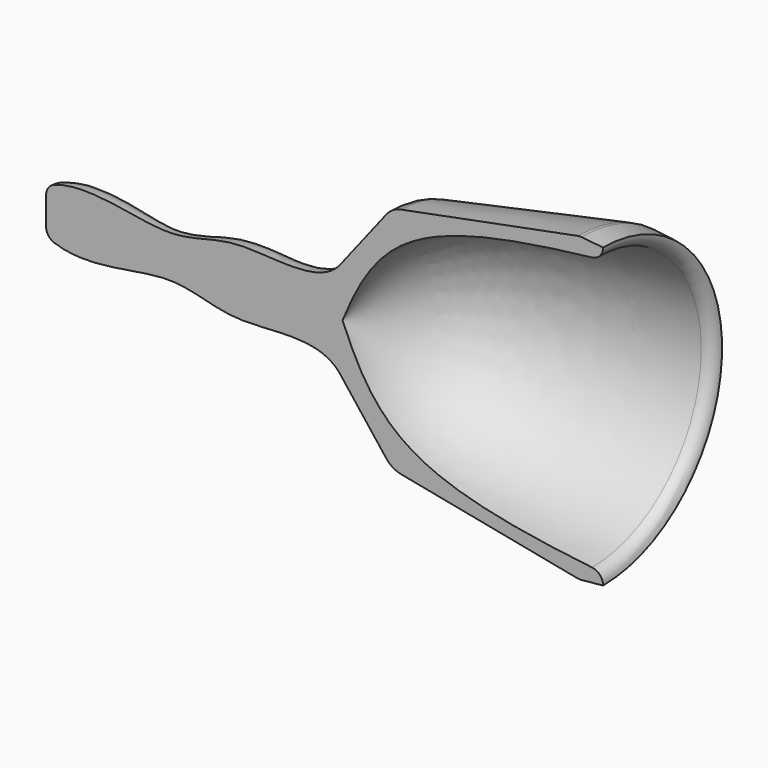
from build123d import *

# Parameters (mm, degrees)
F1_ANGLE = 180


with BuildPart() as f1:
    # F0 (on Front) → F1 (revolve)
    with BuildSketch(Plane.XZ):
        with BuildLine():
            Line((0, 1.421424132), (0, 0))
            Line((0, 0), (30.3731706605, 0))
            add(Edge.make_bspline(
                [(30.3731706605, 0), (34.066597966, 9.0532042325), (38.037234798, 11.9374152002), (55.9419603243, 13.9796851814)],
                knots=[0, 0, 0, 0, 29.5818947991, 29.5818947991, 29.5818947991, 29.5818947991], degree=3))
            ThreePointArc((55.9419603243, 13.9796851814), (56.7455794464, 14.3958932707), (57.068033331, 15.2415033223))
            Line((57.068033331, 15.2415033223), (54.832265802, 15.4659978531))
            ThreePointArc((54.832265802, 15.4659978531), (54.6471635586, 15.4710169556), (54.4632989697, 15.4490659909))
            Line((54.4632989697, 15.4490659909), (36.377761513, 11.9372652844))
            ThreePointArc((36.377761513, 11.9372652844), (35.5335580752, 11.6087928556), (34.8583089648, 11.0049615714))
            Line((34.8583089648, 11.0049615714), (30.1926303655, 5.0168116577))
            add(Edge.make_bspline(
                [(0.8512184045, 2.6203911771), (4.4751526377, 3.8861782281), (12.9518472568, 0.7776731918), (19.1221779417, 4.5420689997), (28.1087569892, 2.2203812841), (30.1926303655, 5.0168116577)],
                knots=[0.0274026041, 0.0274026041, 0.0274026041, 0.0274026041, 0.3694802679, 0.6597269117, 1, 1, 1, 1], degree=3))
            ThreePointArc((0.8512184045, 2.6203911771), (0.2344439594, 2.1566272923), (0, 1.421424132))
        make_face()
    revolve(axis=Axis((15.1865853303, 0, 0), (-1, 0, 0)), revolution_arc=F1_ANGLE)


solid = f1.part
